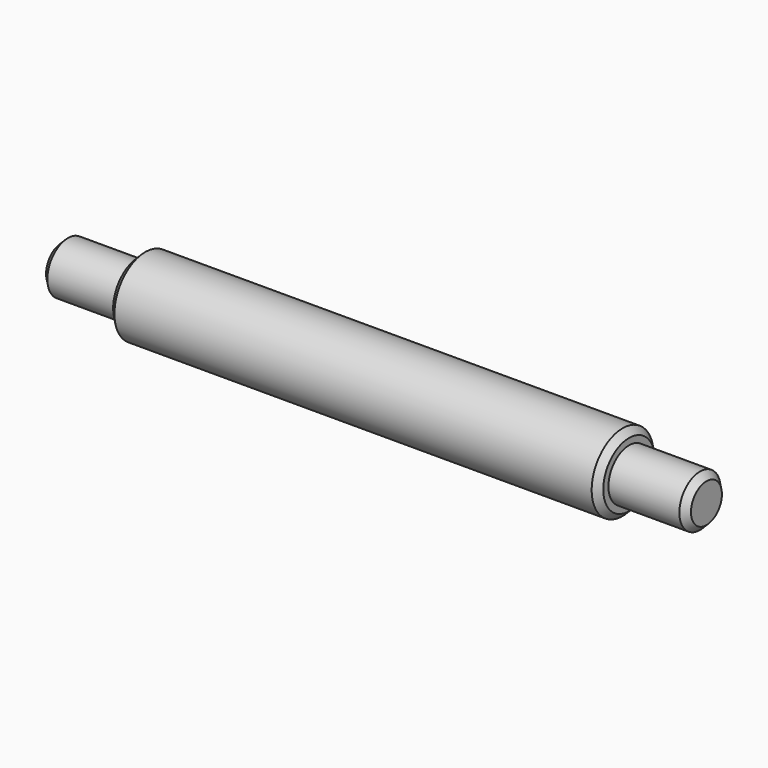
from build123d import *

# Parameters (mm, degrees)
F2_SIZE = 0.5


with BuildPart() as f1:
    # F0 (on Front) → F1 (revolve)
    with BuildSketch(Plane.XZ):
        Polygon((0, 2), (0, 0), (50, 0), (50, 2), (44, 2), (44, 3), (6, 3), (6, 2), align=None)
    revolve(axis=Axis((25, 0, 0), (1, 0, 0)))

    # F2
    f2_edges = [f1.edges().sort_by_distance(p)[0] for p in [
        (0, 0, -2),
        (50, 0, -2),
        (44, 0, -3),
        (6, 0, -3),
    ]]
    chamfer(f2_edges, length=F2_SIZE)


solid = f1.part
